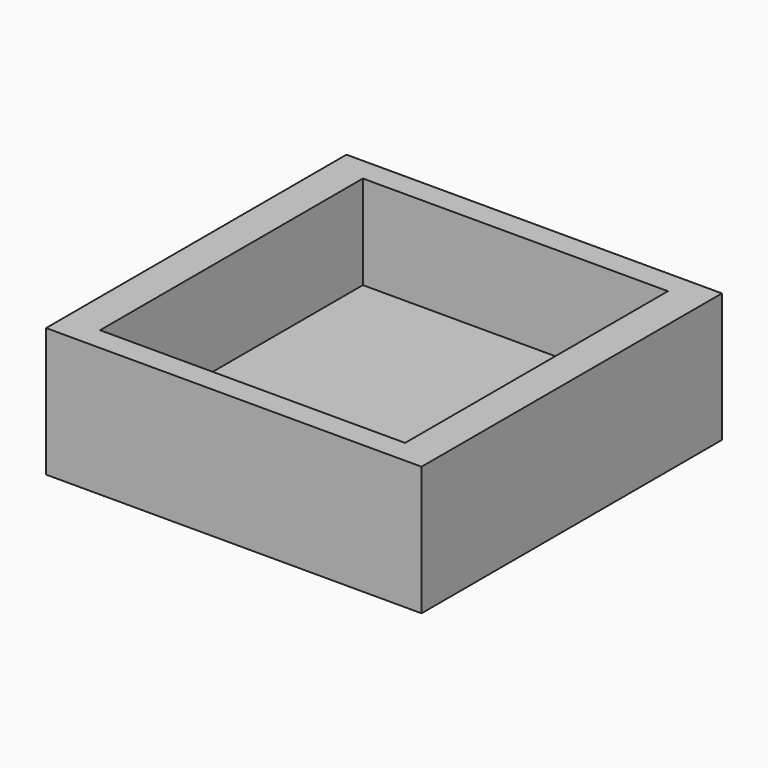
from build123d import *

# Parameters (mm, degrees)
F0_W     = 160
F0_H     = 160
F0_W_2   = 130
F0_H_2   = 140
F1_DEPTH = 40
F2_W     = 160
F2_H     = 160
F3_DEPTH = 15


with BuildPart() as f1:
    # F0 (on Top) → F1 (new body)
    with BuildSketch(Plane.XY):
        Rectangle(F0_W, F0_H)
        Rectangle(F0_W_2, F0_H_2, mode=Mode.SUBTRACT)
    extrude(amount=F1_DEPTH)

    # F2 (on Top) → F3 (join)
    with BuildSketch(Plane.XY):
        Rectangle(F2_W, F2_H)
    extrude(amount=-F3_DEPTH)


solid = f1.part
